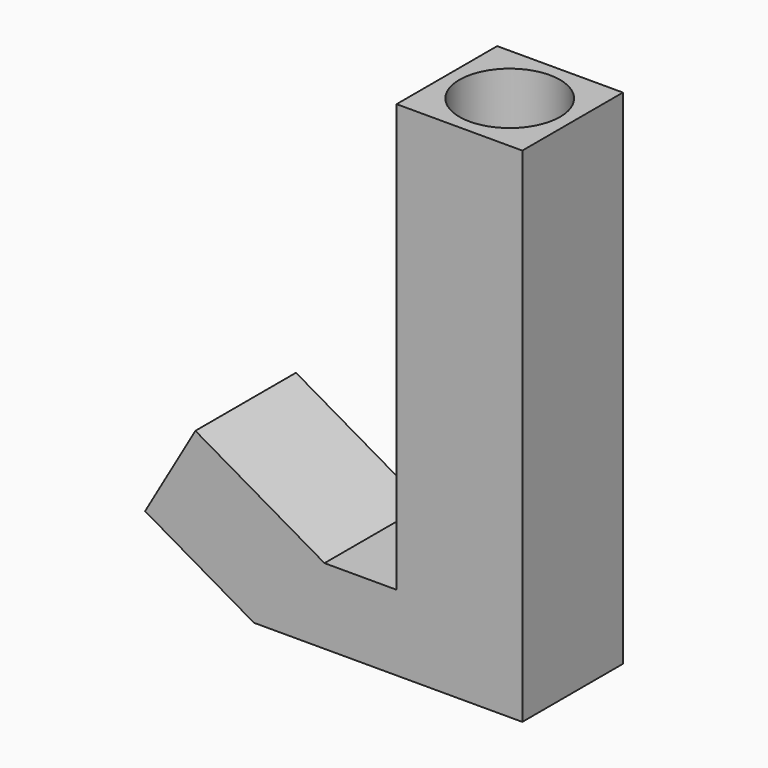
from build123d import *

# Parameters (mm, degrees)
F1_DEPTH      = 12.5
F1_DEPTH_BACK = 12.5
F2_R          = 10
F3_DEPTH      = 90


with BuildPart() as f1:
    # F0 (on Front) → F1 (new body, two sides)
    with BuildSketch(Plane.XZ) as f1_sk:
        Polygon((25.669873, -14.820508), (0, 0), (-10, -17.320508), (11.650635, -29.820508), (65, -29.820508), (65, 70.179492), (40, 70.179492), (40, -14.820508), align=None)
    extrude(amount=F1_DEPTH)
    extrude(f1_sk.sketch, amount=-F1_DEPTH_BACK)

    # F2 (on face) → F3 (cut)
    with BuildSketch(Plane.XY.offset(70.179492)):
        with Locations((52.5, 0)):
            Circle(F2_R)
    extrude(amount=-F3_DEPTH, mode=Mode.SUBTRACT)


solid = f1.part
